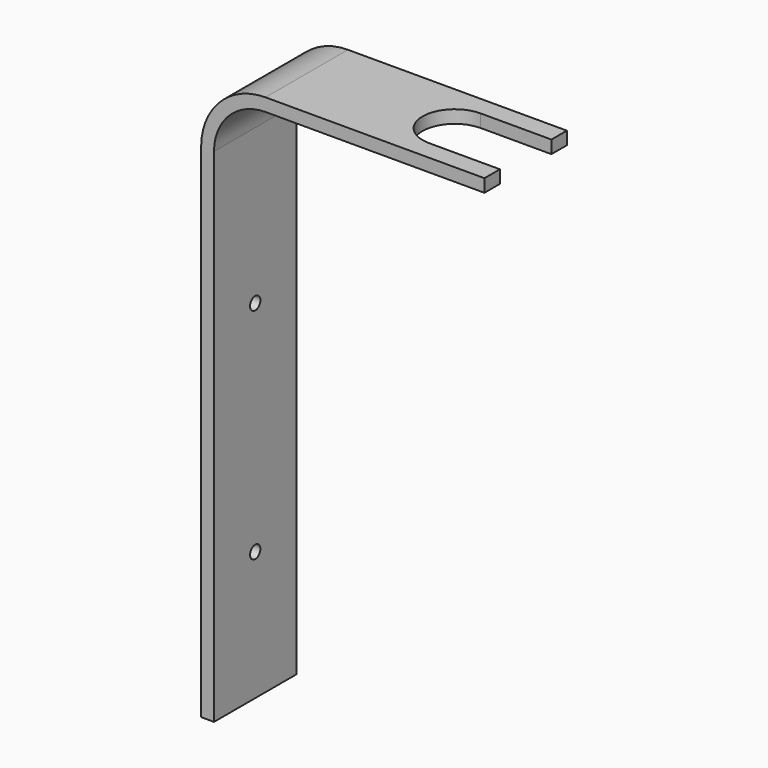
from build123d import *

# Parameters (mm, degrees)
F1_DEPTH = 12.7
F3_DEPTH = 25.4
F4_R     = 1.5875
F5_DEPTH = 25.4


with BuildPart() as f1:
    # F0 (on Front) → F1 (new body, symmetric)
    with BuildSketch(Plane.XZ):
        with BuildLine():
            Line((69.85, 0), (15.875, 0))
            ThreePointArc((15.875, 0), (4.64968, -4.64968), (0, -15.875))
            Line((0, -15.875), (0, -139.7))
            Line((0, -139.7), (3.175, -139.7))
            Line((3.175, -139.7), (3.175, -15.875))
            ThreePointArc((3.175, -15.875), (6.894744, -6.894744), (15.875, -3.175))
            Line((15.875, -3.175), (69.85, -3.175))
            Line((69.85, -3.175), (69.85, 0))
        make_face()
    extrude(amount=F1_DEPTH, both=True)

    # F2 (on face) → F3 (cut)
    with BuildSketch(Plane.XY):
        with BuildLine():
            ThreePointArc((52.3875, -7.9375), (58.00016, -5.61266), (60.325, 0))
            ThreePointArc((60.325, 0), (58.00016, 5.61266), (52.3875, 7.9375))
            ThreePointArc((52.3875, 7.9375), (44.45, 0), (52.3875, -7.9375))
        make_face()
        with BuildLine():
            ThreePointArc((52.3875, 7.9375), (58.00016, 5.61266), (60.325, 0))
            ThreePointArc((60.325, 0), (58.00016, -5.61266), (52.3875, -7.9375))
            Line((52.3875, -7.9375), (69.85, -7.9375))
            Line((69.85, -7.9375), (69.85, 7.9375))
            Line((69.85, 7.9375), (52.3875, 7.9375))
        make_face()
    extrude(amount=-F3_DEPTH, mode=Mode.SUBTRACT)

    # F4 (on face) → F5 (cut)
    with BuildSketch(Plane(origin=(0, 0, 0), x_dir=(0, -1, 0), z_dir=(-1, 0, 0))):
        with Locations((0, -53.975)):
            Circle(F4_R)
        with Locations((0, -107.95)):
            Circle(F4_R)
    extrude(amount=-F5_DEPTH, mode=Mode.SUBTRACT)


solid = f1.part
